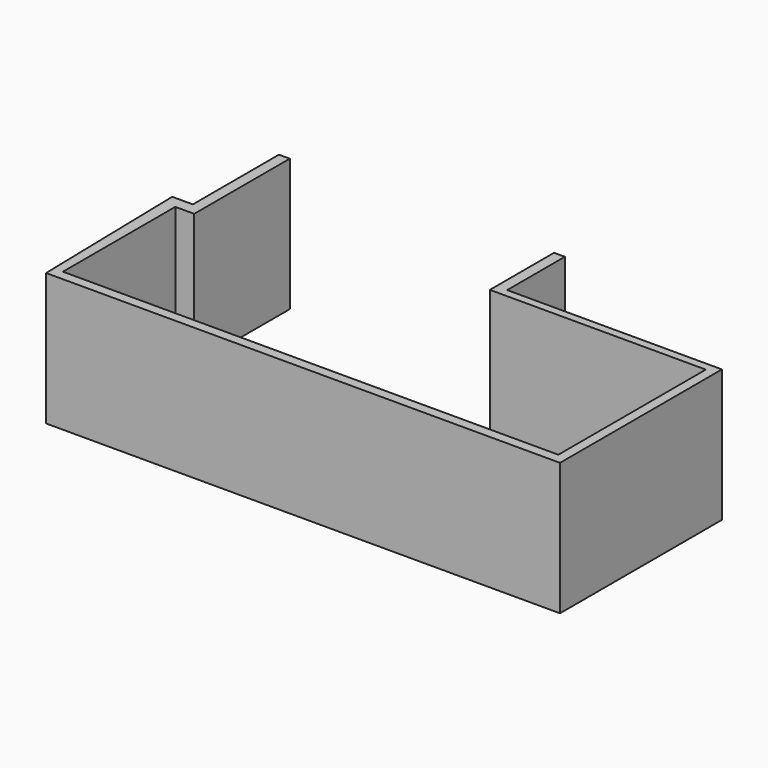
from build123d import *

# Parameters (mm, degrees)
F1_DEPTH = 33.7


with BuildPart() as f1:
    # F0 (on Top) → F1 (new body)
    with BuildSketch(Plane.XY):
        Polygon((67.299701, -45.411721), (-58.731463, -45.411721), (-58.731463, -9.682716), (-53.920768, -9.682716), (-53.920768, 20.709328), (-56.671772, 20.709328), (-56.671772, -6.676298), (-61.916709, -6.676298), (-60.994782, -47.934771), (69.74341, -47.934771), (69.74341, 3.548304), (15.11633, 3.548304), (15.11633, 21.888331), (12.365327, 21.888331), (12.365327, 1.47997), (67.299701, 1.47997), align=None)
    extrude(amount=-F1_DEPTH)


solid = f1.part
